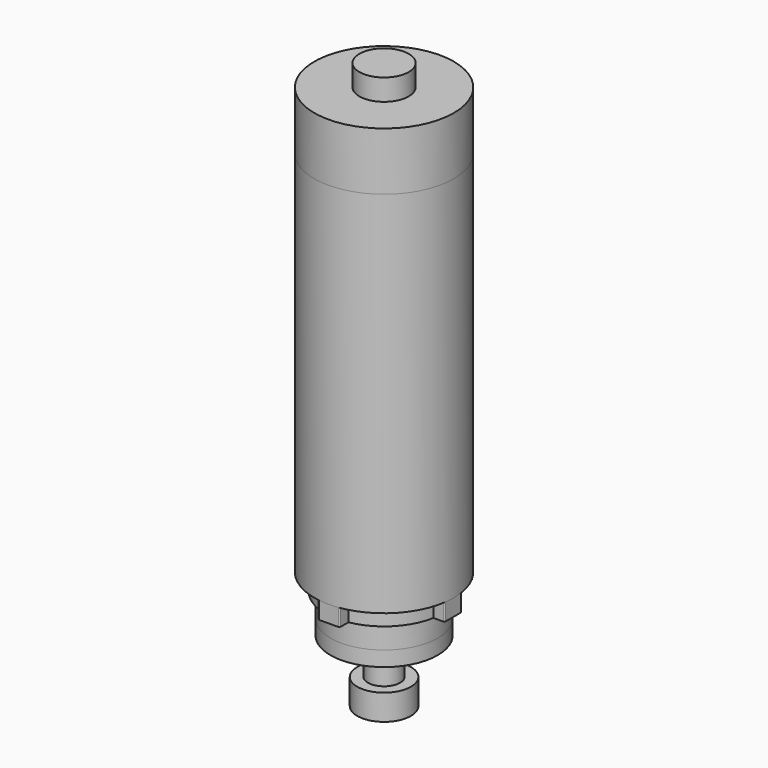
from build123d import *

# Parameters (mm, degrees)
F0_R      = 32.5
F0_R_2    = 27.5
F1_DEPTH  = 172
F2_R      = 32.5
F3_DEPTH  = 27
F4_R      = 11.5
F5_DEPTH  = 10
F6_R      = 2.5
F6_R_2    = 25
F7_DEPTH  = 8
F8_R      = 25
F9_DEPTH  = 11
F10_R     = 25
F11_DEPTH = 7
F12_R     = 15
F13_DEPTH = 4
F14_R     = 7.5
F15_DEPTH = 13
F16_R     = 12.5
F16_R_2   = 5.5
F17_DEPTH = 12


with BuildPart() as f1:
    # F0 (on Top) → F1 (new body)
    with BuildSketch(Plane.XY):
        Circle(F0_R)
        with BuildLine():
            ThreePointArc((-20.5410997207, -23.8812315902), (-21.5632338368, -22.9625117638), (-22.5443211117, -22.0000814911))
            Line((-22.5443211117, -22.0000814911), (-20.3972429106, -19.9048356348))
            ThreePointArc((-20.3972429106, -19.9048356348), (-19.509592519, -20.7756058815), (-18.5848045092, -21.6068285816))
            Line((-18.5848045092, -21.6068285816), (-20.5410997207, -23.8812315902))
        make_face(mode=Mode.SUBTRACT)
        with BuildLine():
            ThreePointArc((-17.3860150373, -26.2674033951), (-18.5152354472, -25.4840353228), (-19.6092110541, -24.6521569409))
            Line((-19.6092110541, -24.6521569409), (-17.7416671442, -22.3043324703))
            ThreePointArc((-17.7416671442, -22.3043324703), (-16.7518796903, -23.0569843397), (-15.7302040814, -23.7657459289))
            Line((-15.7302040814, -23.7657459289), (-17.3860150373, -26.2674033951))
        make_face(mode=Mode.SUBTRACT)
        with BuildLine():
            ThreePointArc((-23.3722389907, -21.1184384972), (-24.2711671474, -20.0788556771), (-25.123893758, -19.001051614))
            Line((-25.123893758, -19.001051614), (-22.7311419715, -17.1914276507))
            ThreePointArc((-22.7311419715, -17.1914276507), (-21.9596274191, -18.1665837078), (-21.1463114678, -19.1071586403))
            Line((-21.1463114678, -19.1071586403), (-23.3722389907, -21.1184384972))
        make_face(mode=Mode.SUBTRACT)
        with BuildLine():
            ThreePointArc((-13.956742511, -28.2393225571), (-15.1752407342, -27.6036604214), (-16.3648520242, -26.9154531492))
            Line((-16.3648520242, -26.9154531492), (-14.8062946886, -24.3520766588))
            ThreePointArc((-14.8062946886, -24.3520766588), (-13.7299797119, -24.9747403813), (-12.6275289385, -25.5498632659))
            Line((-12.6275289385, -25.5498632659), (-13.956742511, -28.2393225571))
        make_face(mode=Mode.SUBTRACT)
        with BuildLine():
            ThreePointArc((-10.3073638178, -29.765890733), (-11.5959234096, -29.2879593055), (-12.862409502, -28.7542765828))
            Line((-12.862409502, -28.7542765828), (-11.6374181209, -26.0157740511))
            ThreePointArc((-11.6374181209, -26.0157740511), (-10.4915497515, -26.4986298478), (-9.3257101209, -26.9310439965))
            Line((-9.3257101209, -26.9310439965), (-10.3073638178, -29.765890733))
        make_face(mode=Mode.SUBTRACT)
        with BuildLine():
            ThreePointArc((-6.49543184, -30.8230330307), (-7.8337314457, -30.5103695756), (-9.1571190983, -30.1396278978))
            Line((-9.1571190983, -30.1396278978), (-8.2850125176, -27.2691871456))
            ThreePointArc((-8.2850125176, -27.2691871456), (-7.0876617842, -27.6046200922), (-5.8768192838, -27.8875060754))
            Line((-5.8768192838, -27.8875060754), (-6.49543184, -30.8230330307))
        make_face(mode=Mode.SUBTRACT)
        with BuildLine():
            ThreePointArc((-2.5810630218, -31.3940776848), (-3.9479968573, -31.2516130914), (-5.3074154563, -31.0496592763))
            Line((-5.3074154563, -31.0496592763), (-4.8019473176, -28.092548869))
            ThreePointArc((-4.8019473176, -28.092548869), (-3.5719971566, -28.2752689875), (-2.335247496, -28.4041655243))
            Line((-2.335247496, -28.4041655243), (-2.5810630218, -31.3940776848))
        make_face(mode=Mode.SUBTRACT)
        with BuildLine():
            ThreePointArc((1.374010702, -31.4700189798), (0, -31.5), (-1.374010702, -31.4700189798))
            Line((-1.374010702, -31.4700189798), (-1.2431525399, -28.4728743151))
            ThreePointArc((-1.2431525399, -28.4728743151), (0, -28.5), (1.2431525399, -28.4728743151))
            Line((1.2431525399, -28.4728743151), (1.374010702, -31.4700189798))
        make_face(mode=Mode.SUBTRACT)
        with BuildLine():
            ThreePointArc((-25.83478409, -18.0225950135), (-26.5963296533, -16.8785440418), (-27.3072475915, -15.7023638022))
            Line((-27.3072475915, -15.7023638022), (-24.7065573447, -14.206900583))
            ThreePointArc((-24.7065573447, -14.206900583), (-24.0633458768, -15.2710636569), (-23.3743284624, -16.3061573932))
            Line((-23.3743284624, -16.3061573932), (-25.83478409, -18.0225950135))
        make_face(mode=Mode.SUBTRACT)
        with BuildLine():
            ThreePointArc((-27.8898992113, -14.6425244403), (-28.5020521527, -13.4120476843), (-29.0599498179, -12.1560403332))
            Line((-29.0599498179, -12.1560403332), (-26.2923355495, -10.9983222062))
            ThreePointArc((-26.2923355495, -10.9983222062), (-25.7875709953, -12.1347098096), (-25.233718334, -13.2479983032))
            Line((-25.233718334, -13.2479983032), (-27.8898992113, -14.6425244403))
        make_face(mode=Mode.SUBTRACT)
        with BuildLine():
            ThreePointArc((-29.5051739613, -11.0315325097), (-29.9582802633, -9.7340353228), (-30.3543592761, -8.4180088465))
            Line((-30.3543592761, -8.4180088465), (-27.4634679164, -7.6162937182))
            ThreePointArc((-27.4634679164, -7.6162937182), (-27.1051107144, -8.8069843397), (-26.6951573936, -9.9809103659))
            Line((-26.6951573936, -9.9809103659), (-29.5051739613, -11.0315325097))
        make_face(mode=Mode.SUBTRACT)
        with BuildLine():
            ThreePointArc((-30.6551344925, -7.2465667214), (-30.942048398, -5.9025114095), (-31.1700623557, -4.5472203315))
            Line((-31.1700623557, -4.5472203315), (-28.2014849885, -4.1141517285))
            ThreePointArc((-28.2014849885, -4.1141517285), (-27.9951866458, -5.3403674657), (-27.7355978741, -6.5564175099))
            Line((-27.7355978741, -6.5564175099), (-30.6551344925, -7.2465667214))
        make_face(mode=Mode.SUBTRACT)
        with BuildLine():
            ThreePointArc((-31.3216452402, -3.3473182471), (-31.4378419455, -1.9779013652), (-31.4941949318, -0.6047194356))
            Line((-31.4941949318, -0.6047194356), (-28.4947477955, -0.5471271084))
            ThreePointArc((-28.4947477955, -0.5471271084), (-28.4437617602, -1.7895298066), (-28.3386314078, -3.0285260331))
            Line((-28.3386314078, -3.0285260331), (-31.3216452402, -3.3473182471))
        make_face(mode=Mode.SUBTRACT)
        with BuildLine():
            ThreePointArc((5.3074154563, -31.0496592763), (3.9479968573, -31.2516130914), (2.5810630218, -31.3940776848))
            Line((2.5810630218, -31.3940776848), (2.335247496, -28.4041655243))
            ThreePointArc((2.335247496, -28.4041655243), (3.5719971566, -28.2752689875), (4.8019473176, -28.092548869))
            Line((4.8019473176, -28.092548869), (5.3074154563, -31.0496592763))
        make_face(mode=Mode.SUBTRACT)
        with BuildLine():
            ThreePointArc((9.1571190983, -30.1396278978), (7.8337314457, -30.5103695756), (6.49543184, -30.8230330307))
            Line((6.49543184, -30.8230330307), (5.8768192838, -27.8875060754))
            ThreePointArc((5.8768192838, -27.8875060754), (7.0876617842, -27.6046200922), (8.2850125176, -27.2691871456))
            Line((8.2850125176, -27.2691871456), (9.1571190983, -30.1396278978))
        make_face(mode=Mode.SUBTRACT)
        with BuildLine():
            ThreePointArc((12.862409502, -28.7542765828), (11.5959234096, -29.2879593055), (10.3073638178, -29.765890733))
            Line((10.3073638178, -29.765890733), (9.3257101209, -26.9310439965))
            ThreePointArc((9.3257101209, -26.9310439965), (10.4915497515, -26.4986298478), (11.6374181209, -26.0157740511))
            Line((11.6374181209, -26.0157740511), (12.862409502, -28.7542765828))
        make_face(mode=Mode.SUBTRACT)
        with BuildLine():
            ThreePointArc((16.3648520242, -26.9154531492), (15.1752407342, -27.6036604214), (13.956742511, -28.2393225571))
            Line((13.956742511, -28.2393225571), (12.6275289385, -25.5498632659))
            ThreePointArc((12.6275289385, -25.5498632659), (13.7299797119, -24.9747403813), (14.8062946886, -24.3520766588))
            Line((14.8062946886, -24.3520766588), (16.3648520242, -26.9154531492))
        make_face(mode=Mode.SUBTRACT)
        with BuildLine():
            ThreePointArc((19.6092110541, -24.6521569409), (18.5152354472, -25.4840353228), (17.3860150373, -26.2674033951))
            Line((17.3860150373, -26.2674033951), (15.7302040814, -23.7657459289))
            ThreePointArc((15.7302040814, -23.7657459289), (16.7518796903, -23.0569843397), (17.7416671442, -22.3043324703))
            Line((17.7416671442, -22.3043324703), (19.6092110541, -24.6521569409))
        make_face(mode=Mode.SUBTRACT)
        with BuildLine():
            ThreePointArc((22.5443211117, -22.0000814911), (21.5632338368, -22.9625117638), (20.5410997207, -23.8812315902))
            Line((20.5410997207, -23.8812315902), (18.5848045092, -21.6068285816))
            ThreePointArc((18.5848045092, -21.6068285816), (19.509592519, -20.7756058815), (20.3972429106, -19.9048356348))
            Line((20.3972429106, -19.9048356348), (22.5443211117, -22.0000814911))
        make_face(mode=Mode.SUBTRACT)
        with BuildLine():
            ThreePointArc((25.123893758, -19.001051614), (24.2711671474, -20.0788556771), (23.3722389907, -21.1184384972))
            Line((23.3722389907, -21.1184384972), (21.1463114678, -19.1071586403))
            ThreePointArc((21.1463114678, -19.1071586403), (21.9596274191, -18.1665837078), (22.7311419715, -17.1914276507))
            Line((22.7311419715, -17.1914276507), (25.123893758, -19.001051614))
        make_face(mode=Mode.SUBTRACT)
        with BuildLine():
            ThreePointArc((27.3072475915, -15.7023638022), (26.5963296533, -16.8785440418), (25.83478409, -18.0225950135))
            Line((25.83478409, -18.0225950135), (23.3743284624, -16.3061573932))
            ThreePointArc((23.3743284624, -16.3061573932), (24.0633458768, -15.2710636569), (24.7065573447, -14.206900583))
            Line((24.7065573447, -14.206900583), (27.3072475915, -15.7023638022))
        make_face(mode=Mode.SUBTRACT)
        with BuildLine():
            ThreePointArc((29.0599498179, -12.1560403332), (28.5020521527, -13.4120476843), (27.8898992113, -14.6425244403))
            Line((27.8898992113, -14.6425244403), (25.233718334, -13.2479983032))
            ThreePointArc((25.233718334, -13.2479983032), (25.7875709953, -12.1347098096), (26.2923355495, -10.9983222062))
            Line((26.2923355495, -10.9983222062), (29.0599498179, -12.1560403332))
        make_face(mode=Mode.SUBTRACT)
        with BuildLine():
            ThreePointArc((30.3543592761, -8.4180088465), (29.9582802633, -9.7340353228), (29.5051739613, -11.0315325097))
            Line((29.5051739613, -11.0315325097), (26.6951573936, -9.9809103659))
            ThreePointArc((26.6951573936, -9.9809103659), (27.1051107144, -8.8069843397), (27.4634679164, -7.6162937182))
            Line((27.4634679164, -7.6162937182), (30.3543592761, -8.4180088465))
        make_face(mode=Mode.SUBTRACT)
        with BuildLine():
            ThreePointArc((31.1700623557, -4.5472203315), (30.942048398, -5.9025114095), (30.6551344925, -7.2465667214))
            Line((30.6551344925, -7.2465667214), (27.7355978741, -6.5564175099))
            ThreePointArc((27.7355978741, -6.5564175099), (27.9951866458, -5.3403674657), (28.2014849885, -4.1141517285))
            Line((28.2014849885, -4.1141517285), (31.1700623557, -4.5472203315))
        make_face(mode=Mode.SUBTRACT)
        with BuildLine():
            ThreePointArc((31.4941949318, -0.6047194356), (31.4378419455, -1.9779013652), (31.3216452402, -3.3473182471))
            Line((31.3216452402, -3.3473182471), (28.3386314078, -3.0285260331))
            ThreePointArc((28.3386314078, -3.0285260331), (28.4437617602, -1.7895298066), (28.4947477955, -0.5471271084))
            Line((28.4947477955, -0.5471271084), (31.4941949318, -0.6047194356))
        make_face(mode=Mode.SUBTRACT)
        with BuildLine():
            ThreePointArc((-31.4941949318, 0.6047194356), (-31.4378419455, 1.9779013652), (-31.3216452402, 3.3473182471))
            Line((-31.3216452402, 3.3473182471), (-28.3386314078, 3.0285260331))
            ThreePointArc((-28.3386314078, 3.0285260331), (-28.4437617602, 1.7895298066), (-28.4947477955, 0.5471271084))
            Line((-28.4947477955, 0.5471271084), (-31.4941949318, 0.6047194356))
        make_face(mode=Mode.SUBTRACT)
        with BuildLine():
            ThreePointArc((-31.1700623557, 4.5472203315), (-30.942048398, 5.9025114095), (-30.6551344925, 7.2465667214))
            Line((-30.6551344925, 7.2465667214), (-27.7355978741, 6.5564175099))
            ThreePointArc((-27.7355978741, 6.5564175099), (-27.9951866458, 5.3403674657), (-28.2014849885, 4.1141517285))
            Line((-28.2014849885, 4.1141517285), (-31.1700623557, 4.5472203315))
        make_face(mode=Mode.SUBTRACT)
        with BuildLine():
            ThreePointArc((-30.3543592761, 8.4180088465), (-29.9582802633, 9.7340353228), (-29.5051739613, 11.0315325097))
            Line((-29.5051739613, 11.0315325097), (-26.6951573936, 9.9809103659))
            ThreePointArc((-26.6951573936, 9.9809103659), (-27.1051107144, 8.8069843397), (-27.4634679164, 7.6162937182))
            Line((-27.4634679164, 7.6162937182), (-30.3543592761, 8.4180088465))
        make_face(mode=Mode.SUBTRACT)
        with BuildLine():
            ThreePointArc((-29.0599498179, 12.1560403332), (-28.5020521527, 13.4120476843), (-27.8898992113, 14.6425244403))
            Line((-27.8898992113, 14.6425244403), (-25.233718334, 13.2479983032))
            ThreePointArc((-25.233718334, 13.2479983032), (-25.7875709953, 12.1347098096), (-26.2923355495, 10.9983222062))
            Line((-26.2923355495, 10.9983222062), (-29.0599498179, 12.1560403332))
        make_face(mode=Mode.SUBTRACT)
        with BuildLine():
            ThreePointArc((-27.3072475915, 15.7023638022), (-26.5963296533, 16.8785440418), (-25.83478409, 18.0225950135))
            Line((-25.83478409, 18.0225950135), (-23.3743284624, 16.3061573932))
            ThreePointArc((-23.3743284624, 16.3061573932), (-24.0633458768, 15.2710636569), (-24.7065573447, 14.206900583))
            Line((-24.7065573447, 14.206900583), (-27.3072475915, 15.7023638022))
        make_face(mode=Mode.SUBTRACT)
        with BuildLine():
            ThreePointArc((-25.123893758, 19.001051614), (-24.2711671474, 20.0788556771), (-23.3722389907, 21.1184384972))
            Line((-23.3722389907, 21.1184384972), (-21.1463114678, 19.1071586403))
            ThreePointArc((-21.1463114678, 19.1071586403), (-21.9596274191, 18.1665837078), (-22.7311419715, 17.1914276507))
            Line((-22.7311419715, 17.1914276507), (-25.123893758, 19.001051614))
        make_face(mode=Mode.SUBTRACT)
        with BuildLine():
            ThreePointArc((-22.5443211117, 22.0000814911), (-21.5632338368, 22.9625117638), (-20.5410997207, 23.8812315902))
            Line((-20.5410997207, 23.8812315902), (-18.5848045092, 21.6068285816))
            ThreePointArc((-18.5848045092, 21.6068285816), (-19.509592519, 20.7756058815), (-20.3972429106, 19.9048356348))
            Line((-20.3972429106, 19.9048356348), (-22.5443211117, 22.0000814911))
        make_face(mode=Mode.SUBTRACT)
        with BuildLine():
            ThreePointArc((-19.6092110541, 24.6521569409), (-18.5152354472, 25.4840353228), (-17.3860150373, 26.2674033951))
            Line((-17.3860150373, 26.2674033951), (-15.7302040814, 23.7657459289))
            ThreePointArc((-15.7302040814, 23.7657459289), (-16.7518796903, 23.0569843397), (-17.7416671442, 22.3043324703))
            Line((-17.7416671442, 22.3043324703), (-19.6092110541, 24.6521569409))
        make_face(mode=Mode.SUBTRACT)
        with BuildLine():
            ThreePointArc((-16.3648520242, 26.9154531492), (-15.1752407342, 27.6036604214), (-13.956742511, 28.2393225571))
            Line((-13.956742511, 28.2393225571), (-12.6275289385, 25.5498632659))
            ThreePointArc((-12.6275289385, 25.5498632659), (-13.7299797119, 24.9747403813), (-14.8062946886, 24.3520766588))
            Line((-14.8062946886, 24.3520766588), (-16.3648520242, 26.9154531492))
        make_face(mode=Mode.SUBTRACT)
        with BuildLine():
            ThreePointArc((-12.862409502, 28.7542765828), (-11.5959234096, 29.2879593055), (-10.3073638178, 29.765890733))
            Line((-10.3073638178, 29.765890733), (-9.3257101209, 26.9310439965))
            ThreePointArc((-9.3257101209, 26.9310439965), (-10.4915497515, 26.4986298478), (-11.6374181209, 26.0157740511))
            Line((-11.6374181209, 26.0157740511), (-12.862409502, 28.7542765828))
        make_face(mode=Mode.SUBTRACT)
        with BuildLine():
            ThreePointArc((-9.1571190983, 30.1396278978), (-7.8337314457, 30.5103695756), (-6.49543184, 30.8230330307))
            Line((-6.49543184, 30.8230330307), (-5.8768192838, 27.8875060754))
            ThreePointArc((-5.8768192838, 27.8875060754), (-7.0876617842, 27.6046200922), (-8.2850125176, 27.2691871456))
            Line((-8.2850125176, 27.2691871456), (-9.1571190983, 30.1396278978))
        make_face(mode=Mode.SUBTRACT)
        with BuildLine():
            ThreePointArc((-5.3074154563, 31.0496592763), (-3.9479968573, 31.2516130914), (-2.5810630218, 31.3940776848))
            Line((-2.5810630218, 31.3940776848), (-2.335247496, 28.4041655243))
            ThreePointArc((-2.335247496, 28.4041655243), (-3.5719971566, 28.2752689875), (-4.8019473176, 28.092548869))
            Line((-4.8019473176, 28.092548869), (-5.3074154563, 31.0496592763))
        make_face(mode=Mode.SUBTRACT)
        Circle(F0_R_2, mode=Mode.SUBTRACT)
        with BuildLine():
            ThreePointArc((31.3216452402, 3.3473182471), (31.4378419455, 1.9779013652), (31.4941949318, 0.6047194356))
            Line((31.4941949318, 0.6047194356), (28.4947477955, 0.5471271084))
            ThreePointArc((28.4947477955, 0.5471271084), (28.4437617602, 1.7895298066), (28.3386314078, 3.0285260331))
            Line((28.3386314078, 3.0285260331), (31.3216452402, 3.3473182471))
        make_face(mode=Mode.SUBTRACT)
        with BuildLine():
            ThreePointArc((30.6551344925, 7.2465667214), (30.942048398, 5.9025114095), (31.1700623557, 4.5472203315))
            Line((31.1700623557, 4.5472203315), (28.2014849885, 4.1141517285))
            ThreePointArc((28.2014849885, 4.1141517285), (27.9951866458, 5.3403674657), (27.7355978741, 6.5564175099))
            Line((27.7355978741, 6.5564175099), (30.6551344925, 7.2465667214))
        make_face(mode=Mode.SUBTRACT)
        with BuildLine():
            ThreePointArc((29.5051739613, 11.0315325097), (29.9582802633, 9.7340353228), (30.3543592761, 8.4180088465))
            Line((30.3543592761, 8.4180088465), (27.4634679164, 7.6162937182))
            ThreePointArc((27.4634679164, 7.6162937182), (27.1051107144, 8.8069843397), (26.6951573936, 9.9809103659))
            Line((26.6951573936, 9.9809103659), (29.5051739613, 11.0315325097))
        make_face(mode=Mode.SUBTRACT)
        with BuildLine():
            ThreePointArc((27.8898992113, 14.6425244403), (28.5020521527, 13.4120476843), (29.0599498179, 12.1560403332))
            Line((29.0599498179, 12.1560403332), (26.2923355495, 10.9983222062))
            ThreePointArc((26.2923355495, 10.9983222062), (25.7875709953, 12.1347098096), (25.233718334, 13.2479983032))
            Line((25.233718334, 13.2479983032), (27.8898992113, 14.6425244403))
        make_face(mode=Mode.SUBTRACT)
        with BuildLine():
            ThreePointArc((25.83478409, 18.0225950135), (26.5963296533, 16.8785440418), (27.3072475915, 15.7023638022))
            Line((27.3072475915, 15.7023638022), (24.7065573447, 14.206900583))
            ThreePointArc((24.7065573447, 14.206900583), (24.0633458768, 15.2710636569), (23.3743284624, 16.3061573932))
            Line((23.3743284624, 16.3061573932), (25.83478409, 18.0225950135))
        make_face(mode=Mode.SUBTRACT)
        with BuildLine():
            ThreePointArc((-1.374010702, 31.4700189798), (0, 31.5), (1.374010702, 31.4700189798))
            Line((1.374010702, 31.4700189798), (1.2431525399, 28.4728743151))
            ThreePointArc((1.2431525399, 28.4728743151), (0, 28.5), (-1.2431525399, 28.4728743151))
            Line((-1.2431525399, 28.4728743151), (-1.374010702, 31.4700189798))
        make_face(mode=Mode.SUBTRACT)
        with BuildLine():
            ThreePointArc((2.5810630218, 31.3940776848), (3.9479968573, 31.2516130914), (5.3074154563, 31.0496592763))
            Line((5.3074154563, 31.0496592763), (4.8019473176, 28.092548869))
            ThreePointArc((4.8019473176, 28.092548869), (3.5719971566, 28.2752689875), (2.335247496, 28.4041655243))
            Line((2.335247496, 28.4041655243), (2.5810630218, 31.3940776848))
        make_face(mode=Mode.SUBTRACT)
        with BuildLine():
            ThreePointArc((6.49543184, 30.8230330307), (7.8337314457, 30.5103695756), (9.1571190983, 30.1396278978))
            Line((9.1571190983, 30.1396278978), (8.2850125176, 27.2691871456))
            ThreePointArc((8.2850125176, 27.2691871456), (7.0876617842, 27.6046200922), (5.8768192838, 27.8875060754))
            Line((5.8768192838, 27.8875060754), (6.49543184, 30.8230330307))
        make_face(mode=Mode.SUBTRACT)
        with BuildLine():
            ThreePointArc((10.3073638178, 29.765890733), (11.5959234096, 29.2879593055), (12.862409502, 28.7542765828))
            Line((12.862409502, 28.7542765828), (11.6374181209, 26.0157740511))
            ThreePointArc((11.6374181209, 26.0157740511), (10.4915497515, 26.4986298478), (9.3257101209, 26.9310439965))
            Line((9.3257101209, 26.9310439965), (10.3073638178, 29.765890733))
        make_face(mode=Mode.SUBTRACT)
        with BuildLine():
            ThreePointArc((13.956742511, 28.2393225571), (15.1752407342, 27.6036604214), (16.3648520242, 26.9154531492))
            Line((16.3648520242, 26.9154531492), (14.8062946886, 24.3520766588))
            ThreePointArc((14.8062946886, 24.3520766588), (13.7299797119, 24.9747403813), (12.6275289385, 25.5498632659))
            Line((12.6275289385, 25.5498632659), (13.956742511, 28.2393225571))
        make_face(mode=Mode.SUBTRACT)
        with BuildLine():
            ThreePointArc((23.3722389907, 21.1184384972), (24.2711671474, 20.0788556771), (25.123893758, 19.001051614))
            Line((25.123893758, 19.001051614), (22.7311419715, 17.1914276507))
            ThreePointArc((22.7311419715, 17.1914276507), (21.9596274191, 18.1665837078), (21.1463114678, 19.1071586403))
            Line((21.1463114678, 19.1071586403), (23.3722389907, 21.1184384972))
        make_face(mode=Mode.SUBTRACT)
        with BuildLine():
            ThreePointArc((17.3860150373, 26.2674033951), (18.5152354472, 25.4840353228), (19.6092110541, 24.6521569409))
            Line((19.6092110541, 24.6521569409), (17.7416671442, 22.3043324703))
            ThreePointArc((17.7416671442, 22.3043324703), (16.7518796903, 23.0569843397), (15.7302040814, 23.7657459289))
            Line((15.7302040814, 23.7657459289), (17.3860150373, 26.2674033951))
        make_face(mode=Mode.SUBTRACT)
        with BuildLine():
            ThreePointArc((20.5410997207, 23.8812315902), (21.5632338368, 22.9625117638), (22.5443211117, 22.0000814911))
            Line((22.5443211117, 22.0000814911), (20.3972429106, 19.9048356348))
            ThreePointArc((20.3972429106, 19.9048356348), (19.509592519, 20.7756058815), (18.5848045092, 21.6068285816))
            Line((18.5848045092, 21.6068285816), (20.5410997207, 23.8812315902))
        make_face(mode=Mode.SUBTRACT)
    extrude(amount=F1_DEPTH)


with BuildPart() as f3:
    # F2 (on face) → F3 (new body)
    with BuildSketch(Plane.XY.offset(172)):
        Circle(F2_R)
    extrude(amount=F3_DEPTH)


with BuildPart() as f5:
    # F4 (on face) → F5 (new body)
    with BuildSketch(Plane.XY.offset(199)):
        Circle(F4_R)
    extrude(amount=F5_DEPTH)


with BuildPart() as f7:
    # F6 (on Top) → F7 (new body)
    with BuildSketch(Plane.XY):
        with BuildLine():
            ThreePointArc((-27.041634566, -5), (-19.4454364826, -19.4454364826), (-5, -27.041634566))
            Line((-5, -27.041634566), (-5, -31.6869538789))
            ThreePointArc((-5, -31.6869538789), (-4.8535533906, -32.0405072695), (-4.5, -32.1869538789))
            Line((-4.5, -32.1869538789), (4.5, -32.1869538789))
            ThreePointArc((4.5, -32.1869538789), (4.8535533906, -32.0405072695), (5, -31.6869538789))
            Line((5, -31.6869538789), (5, -27.041634566))
            ThreePointArc((5, -27.041634566), (19.4454364826, -19.4454364826), (27.041634566, -5))
            Line((27.041634566, -5), (31.6869538789, -5))
            ThreePointArc((31.6869538789, -5), (32.0405072695, -4.8535533906), (32.1869538789, -4.5))
            Line((32.1869538789, -4.5), (32.1869538789, 4.5))
            ThreePointArc((32.1869538789, 4.5), (32.0405072695, 4.8535533906), (31.6869538789, 5))
            Line((31.6869538789, 5), (27.041634566, 5))
            ThreePointArc((27.041634566, 5), (19.4454364826, 19.4454364826), (5, 27.041634566))
            Line((5, 27.041634566), (5, 31.6869538789))
            ThreePointArc((5, 31.6869538789), (4.8535533906, 32.0405072695), (4.5, 32.1869538789))
            Line((4.5, 32.1869538789), (-4.5, 32.1869538789))
            ThreePointArc((-4.5, 32.1869538789), (-4.8535533906, 32.0405072695), (-5, 31.6869538789))
            Line((-5, 31.6869538789), (-5, 27.041634566))
            ThreePointArc((-5, 27.041634566), (-19.4454364826, 19.4454364826), (-27.041634566, 5))
            Line((-27.041634566, 5), (-31.6869538789, 5))
            ThreePointArc((-31.6869538789, 5), (-32.0405072695, 4.8535533906), (-32.1869538789, 4.5))
            Line((-32.1869538789, 4.5), (-32.1869538789, -4.5))
            ThreePointArc((-32.1869538789, -4.5), (-32.0405072695, -4.8535533906), (-31.6869538789, -5))
            Line((-31.6869538789, -5), (-27.041634566, -5))
        make_face()
        with Locations((0, -28.5934769394)):
            Circle(F6_R, mode=Mode.SUBTRACT)
        with Locations((-28.5934769394, 0)):
            Circle(F6_R, mode=Mode.SUBTRACT)
        Circle(F6_R_2, mode=Mode.SUBTRACT)
        with Locations((28.5934769394, 0)):
            Circle(F6_R, mode=Mode.SUBTRACT)
        with Locations((0, 28.5934769394)):
            Circle(F6_R, mode=Mode.SUBTRACT)
    extrude(amount=-F7_DEPTH)


with BuildPart() as f9:
    # F8 (on face) → F9 (new body)
    with BuildSketch(Plane(origin=(0, 0, -8), x_dir=(1, 0, 0), z_dir=(0, 0, -1))):
        Circle(F8_R)
    extrude(amount=F9_DEPTH)


with BuildPart() as f11:
    # F10 (on face) → F11 (new body)
    with BuildSketch(Plane(origin=(0, 0, -19), x_dir=(1, 0, 0), z_dir=(0, 0, -1))):
        Circle(F10_R)
    extrude(amount=F11_DEPTH)


with BuildPart() as f13:
    # F12 (on face) → F13 (new body)
    with BuildSketch(Plane(origin=(0, 0, -26), x_dir=(1, 0, 0), z_dir=(0, 0, -1))):
        Circle(F12_R)
    extrude(amount=F13_DEPTH)


with BuildPart() as f15:
    # F14 (on face) → F15 (new body)
    with BuildSketch(Plane(origin=(0, 0, -30), x_dir=(1, 0, 0), z_dir=(0, 0, -1))):
        Circle(F14_R)
    extrude(amount=F15_DEPTH)


with BuildPart() as f17:
    # F16 (on face) → F17 (new body)
    with BuildSketch(Plane(origin=(0, 0, -43), x_dir=(1, 0, 0), z_dir=(0, 0, -1))):
        Circle(F16_R)
        Circle(F16_R_2, mode=Mode.SUBTRACT)
    extrude(amount=F17_DEPTH)


solid = Compound([f1.part, f3.part, f5.part, f7.part, f9.part, f11.part, f13.part, f15.part, f17.part])
